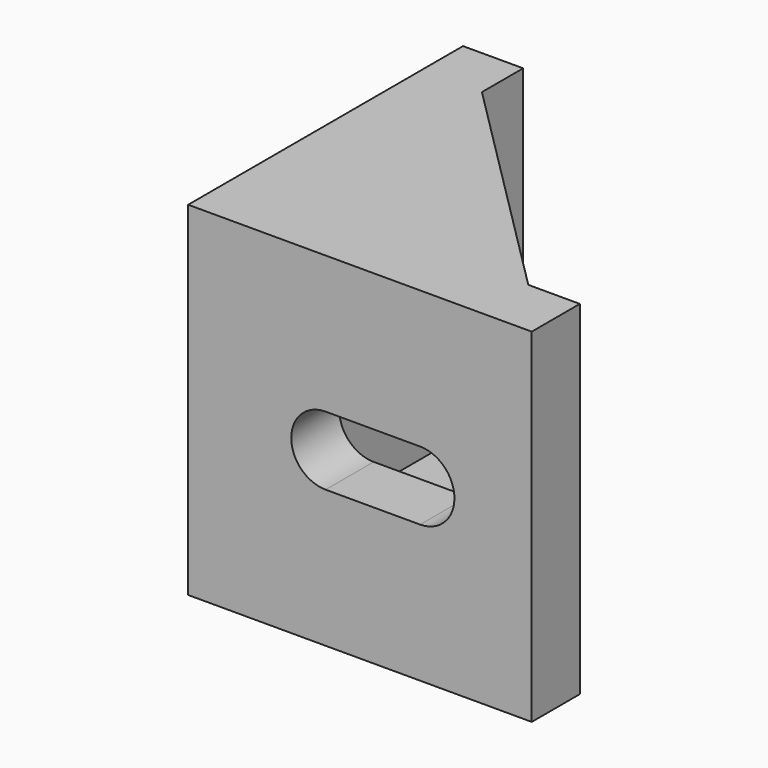
from build123d import *

# Parameters (mm, degrees)
PAD_DEPTH       = 10
BOX_W           = 27
BOX_H           = 24.4
BOX_DEPTH       = 14.4
POCKET_DEPTH    = 20.001
POCKET001_DEPTH = 20.001


with BuildPart() as part:
    # Sketch → Pad (new body, symmetric)
    with BuildSketch(Plane.XY):
        Polygon((0, 0), (0, 20), (3.5, 20), (3.5, 17), (17, 3.5), (20, 3.5), (20, 0), align=None)
    extrude(amount=PAD_DEPTH, both=True)

    # Box → Box (cut)
    with BuildSketch(Plane(origin=(3.5, 3.5, -7), x_dir=(1, 0, 0), z_dir=(0, 0, 1))):
        with Locations((13.5, 12.2)):
            Rectangle(BOX_W, BOX_H)
    extrude(amount=BOX_DEPTH, mode=Mode.SUBTRACT)

    # Sketch001 → Pocket (cut, through all)
    with BuildSketch(Plane.XZ):
        with BuildLine():
            ThreePointArc((8, 2), (6, 0), (8, -2))
            Line((8, -2), (13.5, -2))
            ThreePointArc((13.5, -2), (15.5, 0), (13.5, 2))
            Line((8, 2), (13.5, 2))
        make_face()
    extrude(amount=-POCKET_DEPTH, mode=Mode.SUBTRACT)

    # Sketch002 → Pocket001 (cut, through all)
    with BuildSketch(Plane.YZ):
        with BuildLine():
            ThreePointArc((8, 2), (6, 0), (8, -2))
            Line((8, -2), (13.5, -2))
            ThreePointArc((13.5, -2), (15.5, 0), (13.5, 2))
            Line((8, 2), (13.5, 2))
        make_face()
    extrude(amount=POCKET001_DEPTH, mode=Mode.SUBTRACT)


solid = part.part
